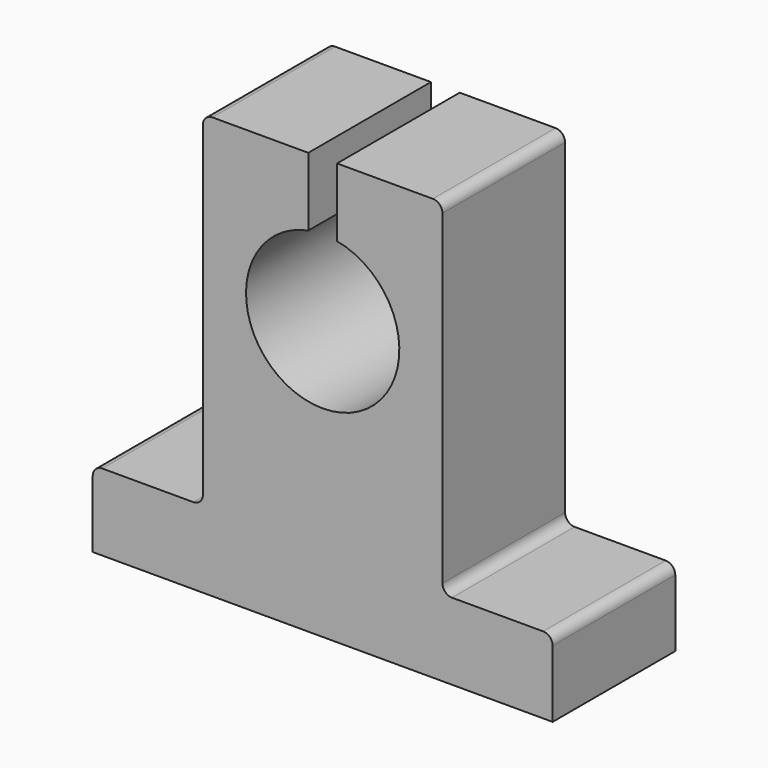
from build123d import *

# Parameters (mm, degrees)
F1_DEPTH = 8


with BuildPart() as f1:
    # F0 (on Front) → F1 (new body, symmetric)
    with BuildSketch(Plane.XZ):
        with BuildLine():
            Line((-24, -29), (24, -29))
            Line((24, -29), (24, -22))
            ThreePointArc((24, -22), (23.707107, -21.292893), (23, -21))
            Line((23, -21), (13.5, -21))
            ThreePointArc((13.5, -21), (12.792893, -20.707107), (12.5, -20))
            Line((12.5, -20), (12.5, 14))
            ThreePointArc((12.5, 14), (12.207107, 14.707107), (11.5, 15))
            Line((11.5, 15), (1.5, 15))
            Line((1.5, 15), (1.5, 7.858117))
            ThreePointArc((1.5, 7.858117), (0, -8), (-1.5, 7.858117))
            Line((-1.5, 7.858117), (-1.5, 15))
            Line((-1.5, 15), (-11.5, 15))
            ThreePointArc((-11.5, 15), (-12.207107, 14.707107), (-12.5, 14))
            Line((-12.5, 14), (-12.5, -20))
            ThreePointArc((-12.5, -20), (-12.792893, -20.707107), (-13.5, -21))
            Line((-13.5, -21), (-23, -21))
            ThreePointArc((-23, -21), (-23.707107, -21.292893), (-24, -22))
            Line((-24, -22), (-24, -29))
        make_face()
    extrude(amount=F1_DEPTH, both=True)


solid = f1.part
